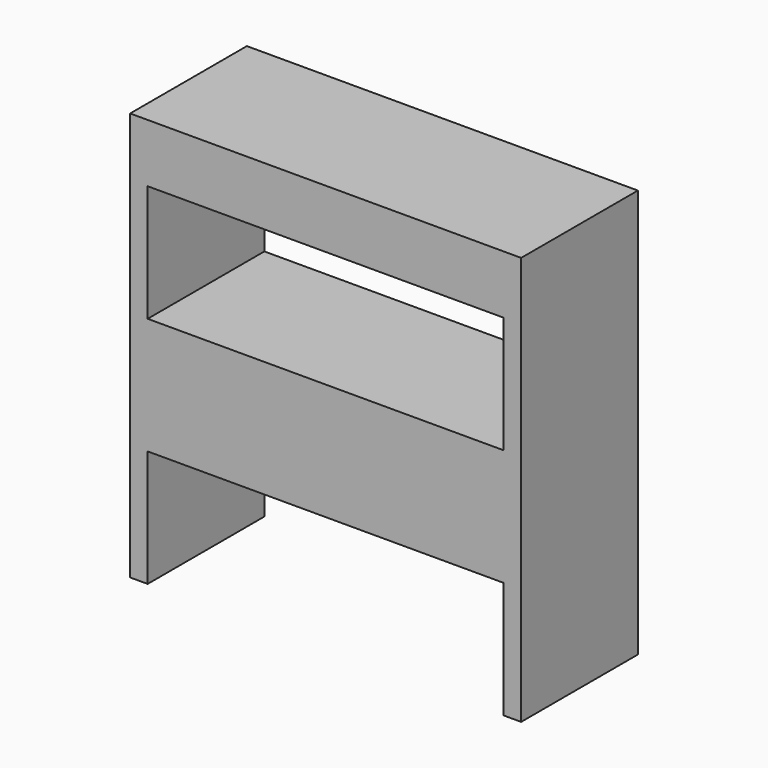
from build123d import *

# Parameters (mm, degrees)
F0_W     = 61
F0_H     = 20
F1_DEPTH = 25


with BuildPart() as f1:
    # F0 (on Front) → F1 (new body)
    with BuildSketch(Plane.XZ):
        Polygon((-14.266822, 0.092322), (-11.266822, 0.092322), (-11.266822, 20.092322), (-11.266822, 40.092322), (-11.266822, 60.092322), (49.733178, 60.092322), (49.733178, 40.092322), (49.733178, 20.092322), (49.733178, 0.092322), (52.733178, 0.092322), (52.733178, 70.092322), (49.733178, 70.092322), (-14.266822, 70.092322), align=None)
        with Locations((19.233178, 30.092322)):
            Rectangle(F0_W, F0_H)
    extrude(amount=F1_DEPTH)


solid = f1.part
